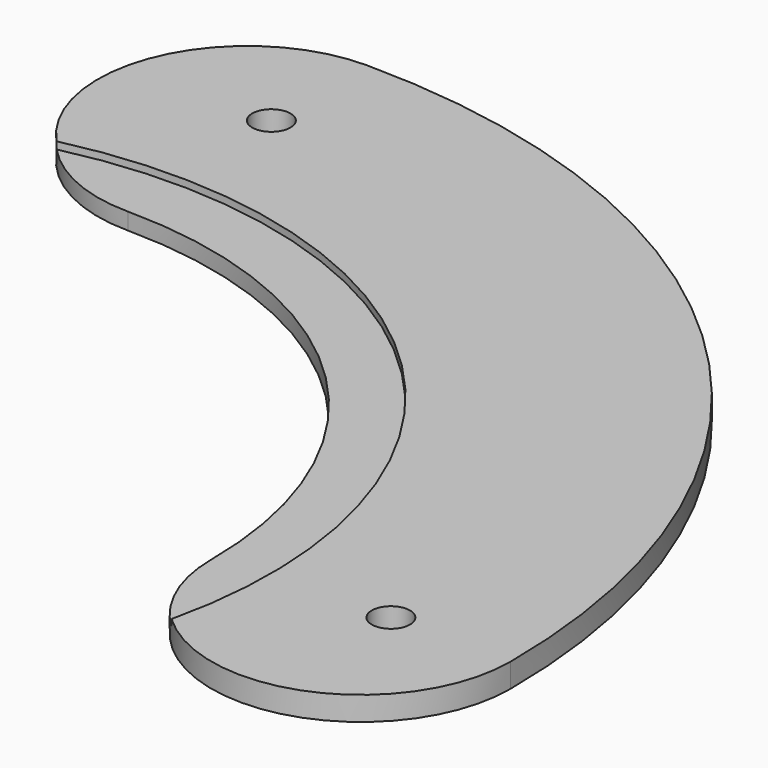
from build123d import *

# Parameters (mm, degrees)
SKETCH_R     = 1.6
PAD_DEPTH    = 2
SKETCH001_R  = 40
POCKET_DEPTH = 0.6


with BuildPart() as part:
    # Sketch → Pad (new body)
    with BuildSketch(Plane.XY):
        with BuildLine():
            ThreePointArc((35, -7.3e-05), (24.748759, 24.748716), (-1.3e-05, 35))
            ThreePointArc((0, 60), (-12.5, 47.500006), (-1.3e-05, 35))
            ThreePointArc((60, -0.000125), (42.426451, 42.426363), (0, 60))
            ThreePointArc((35, -7.3e-05), (47.499974, -12.500099), (60, -0.000125))
        make_face()
        with Locations((50, -0.000104)):
            Circle(SKETCH_R, mode=Mode.SUBTRACT)
        with Locations((-1.8e-05, 50)):
            Circle(SKETCH_R, mode=Mode.SUBTRACT)
    extrude(amount=PAD_DEPTH)

    # Sketch001 (on Face8 of Pad) → Pocket (cut)
    with BuildSketch(Plane.XY.offset(2)):
        Circle(SKETCH001_R)
    extrude(amount=-POCKET_DEPTH, mode=Mode.SUBTRACT)


solid = part.part
